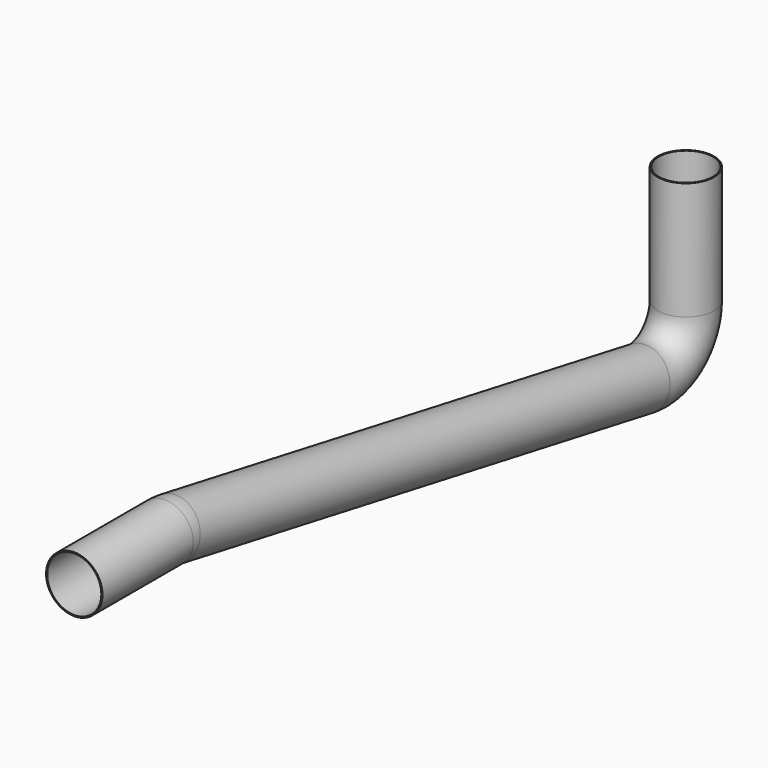
from build123d import *

# Parameters (mm, degrees)
F1_R   = 6
F1_R_2 = 5.75


with BuildPart() as f2:
    # F2: sweep along a path in F0
    with BuildLine(Plane.YZ) as f2_path:
        Line((0, 0), (0, -25))
        ThreePointArc((0, -25), (-3.590359, -32.675709), (-11.783301, -34.839707))
        Line((-11.783301, -34.839707), (-136.535101, -12.230293))
        ThreePointArc((-136.535101, -12.230293), (-137.423156, -12.110154), (-138.318402, -12.07))
        Line((-138.318402, -12.07), (-162.419547, -12.07))
    # F1 (on Top) → F2 (sweep)
    with BuildSketch(Plane.XY):
        Circle(F1_R)
        Circle(F1_R_2, mode=Mode.SUBTRACT)
    sweep(path=f2_path.line)


solid = f2.part
